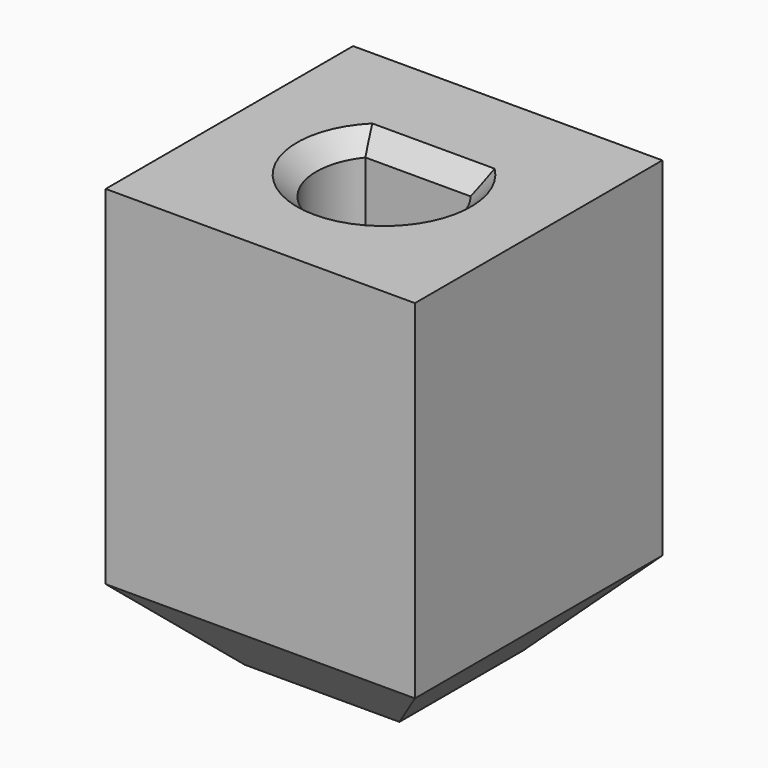
from build123d import *

# Parameters (mm, degrees)
BOX406008008_W     = 10
BOX406008008_H     = 10
BOX406008008_DEPTH = 19
CYLINDER079_R      = 1.75
CYLINDER079_DEPTH  = 17
BOX406008009_W     = 8
BOX406008009_H     = 8
BOX406008009_DEPTH = 11
CHAMFER004_SIZE    = 2
CHAMFER008_SIZE    = 0.5


with BuildPart() as cube343:
    # Box406008008 → Box406008008 (new body)
    with BuildSketch(Plane(origin=(-5, 1.1, 1.5), x_dir=(1, 0, 0), z_dir=(0, 0, 1))):
        with Locations((5, 5)):
            Rectangle(BOX406008008_W, BOX406008008_H)
    extrude(amount=BOX406008008_DEPTH)


with BuildPart() as motor_shaft_hole:
    # Cylinder079 → Cylinder079 (new body)
    with BuildSketch(Plane.XY.offset(9)):
        Circle(CYLINDER079_R)
    extrude(amount=CYLINDER079_DEPTH)

    # Cut064: cut Cube343
    add(cube343.part, mode=Mode.SUBTRACT)


with BuildPart() as chamfer008:
    # Box406008009 → Box406008009 (new body)
    with BuildSketch(Plane(origin=(-4, -4, 7), x_dir=(1, 0, 0), z_dir=(0, 0, 1))):
        with Locations((4, 4)):
            Rectangle(BOX406008009_W, BOX406008009_H)
    extrude(amount=BOX406008009_DEPTH)

    # Cut065: cut Motor Shaft Hole
    add(motor_shaft_hole.part, mode=Mode.SUBTRACT)

    # Chamfer004
    chamfer004_edges = [chamfer008.edges().sort_by_distance(p)[0] for p in [
        (-4, 0, 7),
        (0, -4, 7),
        (0, 4, 7),
        (4, 0, 7),
    ]]
    chamfer(chamfer004_edges, length=CHAMFER004_SIZE)

    # Chamfer008
    chamfer008_edges = [chamfer008.edges().sort_by_distance(p)[0] for p in [
        (1.649904, 0.583367, 18),
        (0, 1.1, 18),
        (-0.583367, -1.649904, 18),
    ]]
    chamfer(chamfer008_edges, length=CHAMFER008_SIZE)


solid = chamfer008.part
